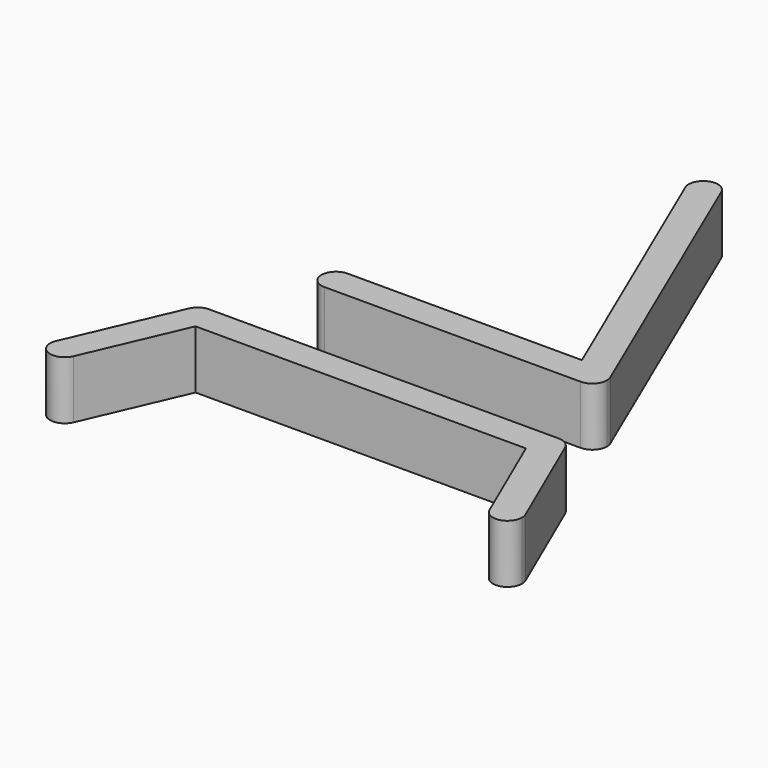
from build123d import *

# Parameters (mm, degrees)
F1_DEPTH = 100


with BuildPart() as f1:
    # F0 (on Top) → F1 (new body)
    with BuildSketch(Plane.XY):
        with BuildLine():
            ThreePointArc((-22.9763084875, 438.1466123446), (5.0295272051, 423.5111483304), (25, 448))
            ThreePointArc((25, 448), (24.4888516696, 453.0295272051), (22.9763084875, 457.8533876554))
            ThreePointArc((22.9763084875, 457.8533876554), (-9.8533876554, 470.9763084875), (-22.9763084875, 438.1466123446))
        make_face()
        with BuildLine():
            ThreePointArc((22.9763084875, 457.8533876554), (24.4888516696, 453.0295272051), (25, 448))
            ThreePointArc((25, 448), (5.0295272051, 423.5111483304), (-22.9763084875, 438.1466123446))
            Line((-22.9763084875, 438.1466123446), (182.0768196135, -40))
            Line((182.0768196135, -40), (220, -40))
            ThreePointArc((220, -40), (233.7598202861, -44.1273541281), (242.9763084875, -55.1466123446))
            Line((242.9763084875, -55.1466123446), (22.9763084875, 457.8533876554))
        make_face()
        with BuildLine():
            ThreePointArc((245, -65), (244.4888516696, -59.9704727949), (242.9763084875, -55.1466123446))
            ThreePointArc((242.9763084875, -55.1466123446), (233.7598202861, -44.1273541281), (220, -40))
            ThreePointArc((220, -40), (199.1273541281, -51.2401797139), (197.0236915125, -74.8533876554))
            ThreePointArc((197.0236915125, -74.8533876554), (206.2401797139, -85.8726458719), (220, -90))
            ThreePointArc((220, -90), (237.6776695297, -82.6776695297), (245, -65))
        make_face()
        with BuildLine():
            Line((220, -40), (182.0768196135, -40))
            Line((182.0768196135, -40), (197.0236915125, -74.8533876554))
            ThreePointArc((197.0236915125, -74.8533876554), (199.1273541281, -51.2401797139), (220, -40))
        make_face()
        with BuildLine():
            Line((197.0236915125, -74.8533876554), (182.0768196135, -40))
            Line((182.0768196135, -40), (-220, -40))
            ThreePointArc((-220, -40), (-202.3223304703, -47.3223304703), (-195, -65))
            ThreePointArc((-195, -65), (-202.3223304703, -82.6776695297), (-220, -90))
            Line((-220, -90), (220, -90))
            ThreePointArc((220, -90), (206.2401797139, -85.8726458719), (197.0236915125, -74.8533876554))
        make_face()
        with BuildLine():
            ThreePointArc((-195, -65), (-202.3223304703, -47.3223304703), (-220, -40))
            ThreePointArc((-220, -40), (-245, -65), (-220, -90))
            ThreePointArc((-220, -90), (-202.3223304703, -82.6776695297), (-195, -65))
        make_face()
    extrude(amount=F1_DEPTH)


with BuildPart() as f1b:
    # F0 (on Top) → F1, piece 2 (new body)
    with BuildSketch(Plane.XY):
        with BuildLine():
            ThreePointArc((-277.053574101, -271.9227787671), (-275.518776098, -267.0665250678), (-275, -262))
            ThreePointArc((-275, -262), (-282.3223304703, -244.3223304703), (-300, -237))
            ThreePointArc((-300, -237), (-313.7282652003, -241.1065863347), (-322.946425899, -252.0772212329))
            ThreePointArc((-322.946425899, -252.0772212329), (-320.8934136653, -275.7282652003), (-300, -287))
            ThreePointArc((-300, -287), (-286.2717347997, -282.8934136653), (-277.053574101, -271.9227787671))
        make_face()
        with BuildLine():
            ThreePointArc((-300, -237), (-282.3223304703, -244.3223304703), (-275, -262))
            ThreePointArc((-275, -262), (-275.518776098, -267.0665250678), (-277.053574101, -271.9227787671))
            Line((-277.053574101, -271.9227787671), (-283.573453553, -287))
            Line((-283.573453553, -287), (283.573453553, -287))
            Line((283.573453553, -287), (277.053574101, -271.9227787671))
            ThreePointArc((277.053574101, -271.9227787671), (279.1065863347, -248.2717347997), (300, -237))
            Line((300, -237), (-300, -237))
        make_face()
        with BuildLine():
            Line((-283.573453553, -287), (-277.053574101, -271.9227787671))
            ThreePointArc((-277.053574101, -271.9227787671), (-286.2717347997, -282.8934136653), (-300, -287))
            Line((-300, -287), (-283.573453553, -287))
        make_face()
        with BuildLine():
            ThreePointArc((-300, -287), (-320.8934136653, -275.7282652003), (-322.946425899, -252.0772212329))
            Line((-322.946425899, -252.0772212329), (-402.946425899, -437.0772212329))
            ThreePointArc((-402.946425899, -437.0772212329), (-374.9334749322, -422.518776098), (-355, -447))
            ThreePointArc((-355, -447), (-355.518776098, -452.0665250678), (-357.053574101, -456.9227787671))
            Line((-357.053574101, -456.9227787671), (-283.573453553, -287))
            Line((-283.573453553, -287), (-300, -287))
        make_face()
        with BuildLine():
            ThreePointArc((322.946425899, -252.0772212329), (313.7282652003, -241.1065863347), (300, -237))
            ThreePointArc((300, -237), (279.1065863347, -248.2717347997), (277.053574101, -271.9227787671))
            ThreePointArc((277.053574101, -271.9227787671), (286.2717347997, -282.8934136653), (300, -287))
            ThreePointArc((300, -287), (317.6776695297, -279.6776695297), (325, -262))
            ThreePointArc((325, -262), (324.481223902, -256.9334749322), (322.946425899, -252.0772212329))
        make_face()
        with BuildLine():
            ThreePointArc((-355, -447), (-374.9334749322, -422.518776098), (-402.946425899, -437.0772212329))
            ThreePointArc((-402.946425899, -437.0772212329), (-389.9227787671, -469.946425899), (-357.053574101, -456.9227787671))
            ThreePointArc((-357.053574101, -456.9227787671), (-355.518776098, -452.0665250678), (-355, -447))
        make_face()
        with BuildLine():
            Line((402.946425899, -437.0772212329), (322.946425899, -252.0772212329))
            ThreePointArc((322.946425899, -252.0772212329), (324.481223902, -256.9334749322), (325, -262))
            ThreePointArc((325, -262), (317.6776695297, -279.6776695297), (300, -287))
            Line((300, -287), (283.573453553, -287))
            Line((283.573453553, -287), (357.053574101, -456.9227787671))
            ThreePointArc((357.053574101, -456.9227787671), (370.0772212329, -424.053574101), (402.946425899, -437.0772212329))
        make_face()
        with BuildLine():
            ThreePointArc((300, -287), (286.2717347997, -282.8934136653), (277.053574101, -271.9227787671))
            Line((277.053574101, -271.9227787671), (283.573453553, -287))
            Line((283.573453553, -287), (300, -287))
        make_face()
        with BuildLine():
            ThreePointArc((405, -447), (404.481223902, -441.9334749322), (402.946425899, -437.0772212329))
            ThreePointArc((402.946425899, -437.0772212329), (370.0772212329, -424.053574101), (357.053574101, -456.9227787671))
            ThreePointArc((357.053574101, -456.9227787671), (385.0665250678, -471.481223902), (405, -447))
        make_face()
    extrude(amount=F1_DEPTH)


solid = Compound([f1.part, f1b.part])
